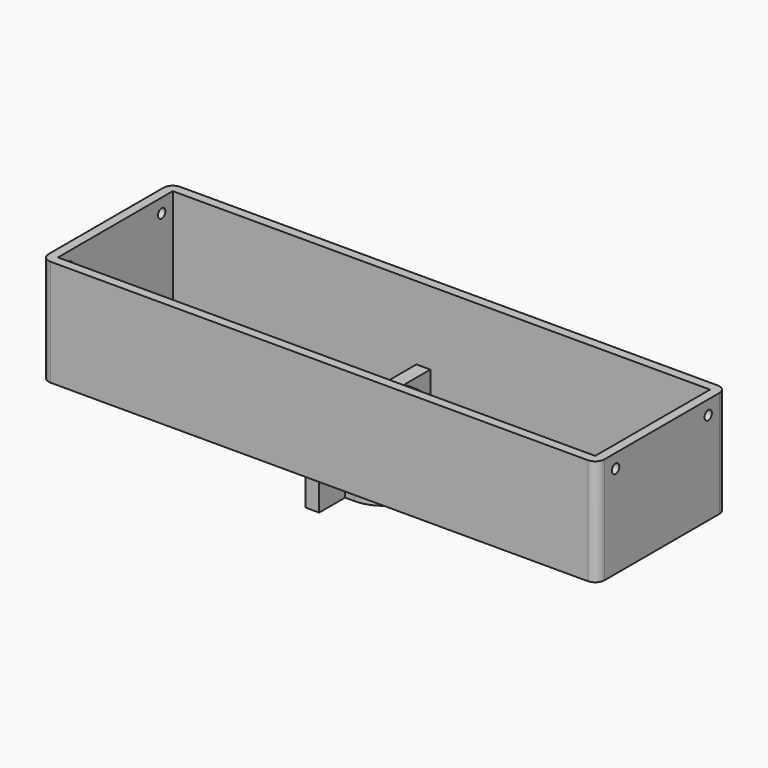
from build123d import *

# Parameters (mm, degrees)
SKETCH_W        = 120
SKETCH_H        = 35
SKETCH_R        = 1
PAD_DEPTH       = 2
SKETCH001_W     = 120
SKETCH001_H     = 35
SKETCH001_W_2   = 116
SKETCH001_H_2   = 31
PAD001_DEPTH    = 23
SKETCH002_R     = 1
SKETCH002_W     = 6
SKETCH002_H     = 2
POCKET_DEPTH    = 60.001
SKETCH003_R     = 1
POCKET001_DEPTH = 60.001
FILLET_R        = 2
PAD002_DEPTH    = 7.5
SKETCH005_R     = 1.2
POCKET002_DEPTH = 5.001


with BuildPart() as body:
    # Sketch → Pad (new body)
    with BuildSketch(Plane.XY):
        Rectangle(SKETCH_W, SKETCH_H)
        with Locations((-52, 7)):
            Circle(SKETCH_R, mode=Mode.SUBTRACT)
        with Locations((-52, -7)):
            Circle(SKETCH_R, mode=Mode.SUBTRACT)
        with Locations((52, 7)):
            Circle(SKETCH_R, mode=Mode.SUBTRACT)
        with Locations((52, -7)):
            Circle(SKETCH_R, mode=Mode.SUBTRACT)
    extrude(amount=PAD_DEPTH)

    # Sketch001 → Pad001 (join)
    with BuildSketch(Plane.XY):
        Rectangle(SKETCH001_W, SKETCH001_H)
        Rectangle(SKETCH001_W_2, SKETCH001_H_2, mode=Mode.SUBTRACT)
    extrude(amount=PAD001_DEPTH)

    # Sketch002 → Pocket (cut, through all)
    with BuildSketch(Plane.YZ):
        with Locations((-12.5, 20)):
            Circle(SKETCH002_R)
        with Locations((12.5, 20)):
            Circle(SKETCH002_R)
        with Locations((0, 3)):
            Rectangle(SKETCH002_W, SKETCH002_H)
    extrude(amount=-POCKET_DEPTH, mode=Mode.SUBTRACT)

    # Sketch003 → Pocket001 (cut, through all)
    with BuildSketch(Plane.YZ):
        with Locations((-12.5, 20)):
            Circle(SKETCH003_R)
        with Locations((12.5, 20)):
            Circle(SKETCH003_R)
    extrude(amount=POCKET001_DEPTH, mode=Mode.SUBTRACT)

    # Fillet
    fillet_edges = [body.edges().sort_by_distance(p)[0] for p in [
        (-60, 17.5, 11.5),
        (-60, -17.5, 11.5),
        (60, -17.5, 11.5),
        (60, 17.5, 11.5),
    ]]
    fillet(fillet_edges, radius=FILLET_R)


with BuildPart() as body001:
    # Sketch004 → Pad002 (new body, symmetric)
    with BuildSketch(Plane.XY):
        with BuildLine():
            ThreePointArc((0, -5), (5, 0), (0, 5))
            Line((-5, 5), (0, 5))
            Line((-5, 15), (-5, 5))
            Line((-2, 15), (-5, 15))
            Line((-2, 8), (-2, 15))
            Line((0, 8), (-2, 8))
            ThreePointArc((0, -8), (8, 0), (0, 8))
            Line((0, -8), (-2, -8))
            Line((-2, -8), (-2, -15))
            Line((-2, -15), (-5, -15))
            Line((-5, -15), (-5, -5))
            Line((-5, -5), (0, -5))
        make_face()
    extrude(amount=PAD002_DEPTH, both=True)

    # Sketch005 → Pocket002 (cut, through all)
    with BuildSketch(Plane.YZ):
        with Locations((-11.5, 0)):
            Circle(SKETCH005_R)
        with Locations((11.5, 0)):
            Circle(SKETCH005_R)
    extrude(amount=-POCKET002_DEPTH, mode=Mode.SUBTRACT)


solid = Compound([body.part, body001.part])
